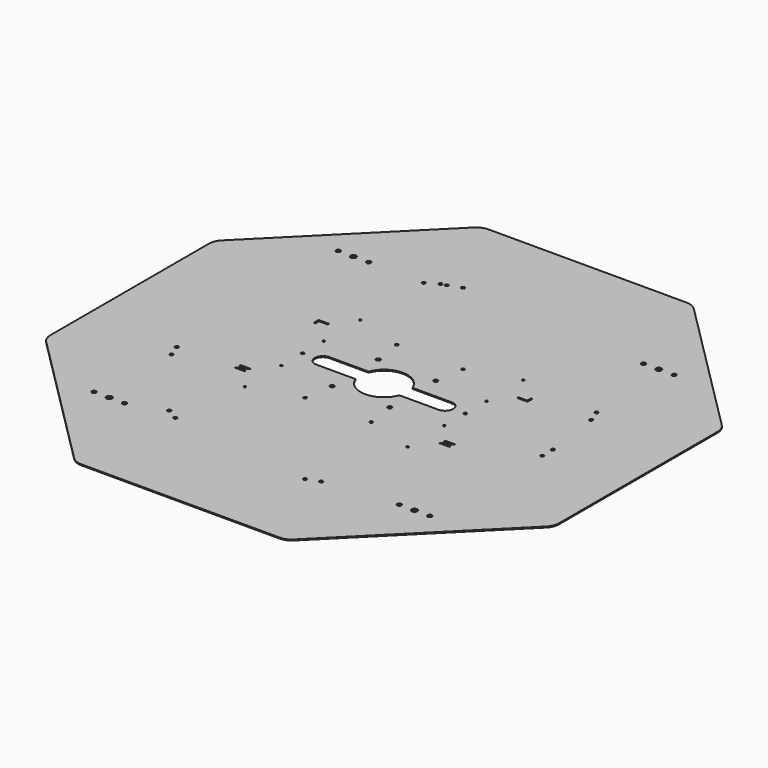
from build123d import *

# Parameters (mm, degrees)
SKETCH_R              = 23
SKETCH_R_2            = 2.75
SKETCH_R_3            = 2
PAD_DEPTH             = 1
SKETCH001_R           = 1.65
POCKET_DEPTH          = 1415.215977
POLARPATTERN_COUNT    = 3
POCKET001_DEPTH       = 5
SKETCH003_R           = 1.1
SKETCH003_R_2         = 1.45
POCKET002_DEPTH       = 1.001
SKETCH004_R           = 1.45
POCKET003_DEPTH       = 1.001
SKETCH005_R           = 2.1
POCKET004_DEPTH       = 1.001
SKETCH006_R           = 1.65
POCKET005_DEPTH       = 1415.215977
POLARPATTERN001_COUNT = 4
FILLET_R              = 15


with BuildPart() as part:
    # Sketch → Pad (new body)
    with BuildSketch(Plane.XY):
        Polygon((103.553391, 250), (-103.553391, 250), (-250, 103.553391), (-250, -103.553391), (-103.553391, -250), (103.553391, -250), (250, -103.553391), (250, 103.553391), align=None)
        Circle(SKETCH_R, mode=Mode.SUBTRACT)
        with Locations((150, 150)):
            Circle(SKETCH_R_2, mode=Mode.SUBTRACT)
        with Locations((-150, 150)):
            Circle(SKETCH_R_2, mode=Mode.SUBTRACT)
        with Locations((-150, -150)):
            Circle(SKETCH_R_2, mode=Mode.SUBTRACT)
        with Locations((150, -150)):
            Circle(SKETCH_R_2, mode=Mode.SUBTRACT)
        with Locations((28.284271, 28.284271)):
            Circle(SKETCH_R_3, mode=Mode.SUBTRACT)
        with Locations((-28.284271, 28.284271)):
            Circle(SKETCH_R_3, mode=Mode.SUBTRACT)
        with Locations((-28.284271, -28.284271)):
            Circle(SKETCH_R_3, mode=Mode.SUBTRACT)
        with Locations((28.284271, -28.284271)):
            Circle(SKETCH_R_3, mode=Mode.SUBTRACT)
    extrude(amount=PAD_DEPTH)

    # Sketch001 → Pocket (cut, through all)
    with BuildSketch(Plane.XY):
        with Locations((169.926455, -5)):
            Circle(SKETCH001_R)
        with Locations((169.926455, -18)):
            Circle(SKETCH001_R)
    pocket = extrude(amount=POCKET_DEPTH, mode=Mode.SUBTRACT)

    # PolarPattern: Pocket ×3 about axis
    polarpattern_axis = Axis((0, 0, 0), (0, 0, 1))
    for i in range(1, POLARPATTERN_COUNT):
        add(pocket.rotate(polarpattern_axis, i * 360 / POLARPATTERN_COUNT), mode=Mode.SUBTRACT)

    # Sketch002 → Pocket001 (cut)
    with BuildSketch(Plane.XY):
        with BuildLine():
            ThreePointArc((-60, 8), (-68, 0), (-60, -8))
            Line((-60, -8), (60, -8))
            ThreePointArc((60, -8), (68, 0), (60, 8))
            Line((-60, 8), (60, 8))
        make_face()
    extrude(amount=POCKET001_DEPTH, mode=Mode.SUBTRACT)

    # Sketch003 → Pocket002 (cut, through all)
    with BuildSketch(Plane.XY):
        with Locations((-80, 71)):
            Circle(SKETCH003_R)
        with Locations((-80, 26)):
            Circle(SKETCH003_R)
        with Locations((-80, -26)):
            Circle(SKETCH003_R)
        with Locations((-80, -71)):
            Circle(SKETCH003_R)
        with Locations((-80, 0)):
            Circle(SKETCH003_R_2)
        with Locations((80, 71)):
            Circle(SKETCH003_R)
        with Locations((80, 26)):
            Circle(SKETCH003_R)
        with Locations((80, 0)):
            Circle(SKETCH003_R_2)
        with Locations((80, -26)):
            Circle(SKETCH003_R)
        with Locations((80, -71)):
            Circle(SKETCH003_R)
        Polygon((-95, 51), (-105, 51), (-105, 45), (-103.5, 45), (-103.5, 49.5), (-95, 49.5), align=None)
        Polygon((-105, -45), (-95, -45), (-101.312029, -49.5), (-96, -49.5), (-96, -51), (-106, -51), (-99.687971, -46.5), (-105, -46.5), align=None)
        Polygon((105, -51), (95, -51), (101.312029, -46.5), (96, -46.5), (96, -45), (106, -45), (99.687971, -49.5), (105, -49.5), align=None)
        Polygon((95, 45), (105, 45), (105, 51), (103.5, 51), (103.5, 46.5), (95, 46.5), align=None)
    extrude(amount=POCKET002_DEPTH, mode=Mode.SUBTRACT)

    # Sketch004 → Pocket003 (cut, through all)
    with BuildSketch(Plane.XY):
        with Locations((-32.5, -56.291651)):
            Circle(SKETCH004_R)
        with Locations((32.5, -56.291651)):
            Circle(SKETCH004_R)
        with Locations((-32.5, 56.291651)):
            Circle(SKETCH004_R)
        with Locations((32.5, 56.291651)):
            Circle(SKETCH004_R)
    extrude(amount=POCKET003_DEPTH, mode=Mode.SUBTRACT)

    # Sketch005 → Pocket004 (cut, through all)
    with BuildSketch(Plane.XY):
        with Locations((135, 150)):
            Circle(SKETCH005_R)
        with Locations((165, 150)):
            Circle(SKETCH005_R)
        with Locations((-165, 150)):
            Circle(SKETCH005_R)
        with Locations((-135, 150)):
            Circle(SKETCH005_R)
        with Locations((-165, -150)):
            Circle(SKETCH005_R)
        with Locations((-135, -150)):
            Circle(SKETCH005_R)
        with Locations((135, -150)):
            Circle(SKETCH005_R)
        with Locations((165, -150)):
            Circle(SKETCH005_R)
    extrude(amount=POCKET004_DEPTH, mode=Mode.SUBTRACT)

    # Sketch006 → Pocket005 (cut, through all)
    with BuildSketch(Plane.XY):
        with Locations((-161.970876, -52.035422)):
            Circle(SKETCH006_R)
        with Locations((-157.524615, -64.251426)):
            Circle(SKETCH006_R)
    pocket005 = extrude(amount=POCKET005_DEPTH, mode=Mode.SUBTRACT)

    # PolarPattern001: Pocket005 ×4 about axis
    polarpattern001_axis = Axis((0, 0, 0), (0, 0, 1))
    for i in range(1, POLARPATTERN001_COUNT):
        add(pocket005.rotate(polarpattern001_axis, i * 360 / POLARPATTERN001_COUNT), mode=Mode.SUBTRACT)

    # Fillet
    fillet_edges = [part.edges().sort_by_distance(p)[0] for p in [
        (-250, -103.553391, 0.5),
        (-103.553391, -250, 0.5),
        (103.553391, -250, 0.5),
        (-250, 103.553391, 0.5),
        (-103.553391, 250, 0.5),
        (103.553391, 250, 0.5),
        (250, 103.553391, 0.5),
        (250, -103.553391, 0.5),
    ]]
    fillet(fillet_edges, radius=FILLET_R)


solid = part.part
